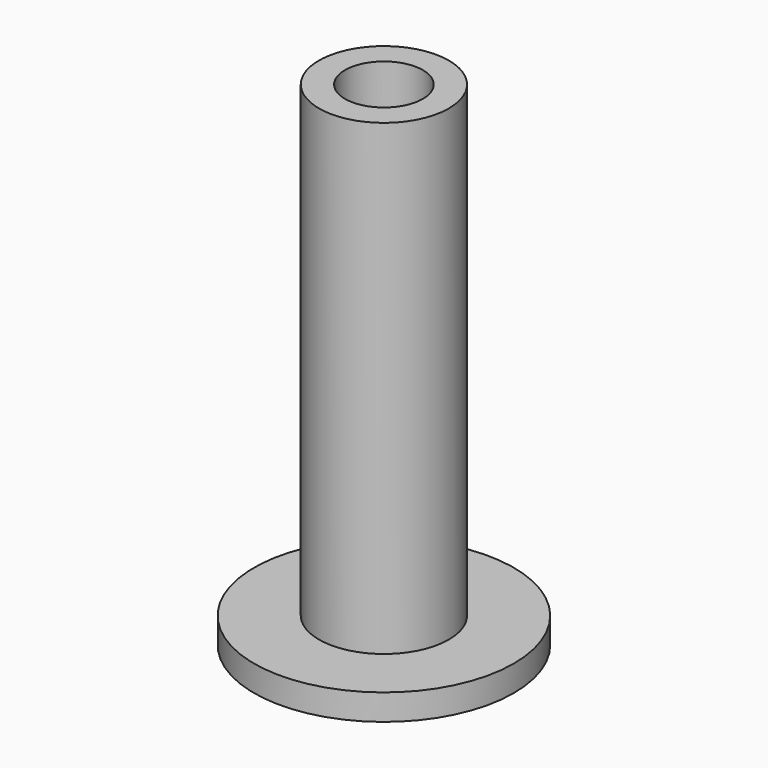
from build123d import *

# Parameters (mm, degrees)
F0_R     = 2.5
F0_R_2   = 1.5
F1_DEPTH = 18
F2_R     = 5
F3_DEPTH = 1


with BuildPart() as f1:
    # F0 (on Top) → F1 (new body)
    with BuildSketch(Plane.XY):
        Circle(F0_R)
        Circle(F0_R_2, mode=Mode.SUBTRACT)
    extrude(amount=F1_DEPTH)

    # F2 (on Top) → F3 (join)
    with BuildSketch(Plane.XY):
        Circle(F2_R)
    extrude(amount=-F3_DEPTH)


solid = f1.part
